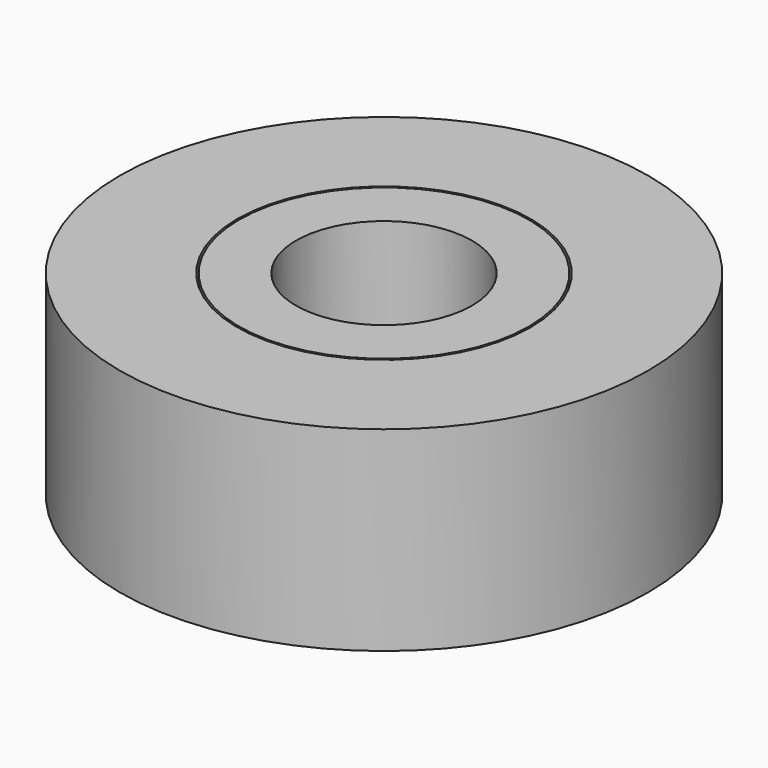
from build123d import *


with BuildPart() as f1:
    # F0 (on Front) → F1 (revolve)
    with BuildSketch(Plane.XZ):
        Polygon((2.25, -1.944888), (2.25, -2.494888), (3.7, -2.494888), (3.7, -1.894888), (3.75, -1.894888), (5.2, -1.894888), (5.2, 1.894888), (3.75, 1.894888), (3.7, 1.894888), (3.7, 2.494888), (2.25, 2.494888), (2.25, 1.944888), (2.25, 1.894888), (2.25, -1.894888), align=None)
        Polygon((3.75, -2.494888), (6.75, -2.494888), (6.75, 2.494888), (3.75, 2.494888), (3.75, 1.944888), (5.25, 1.944888), (5.25, -1.944888), (3.75, -1.944888), align=None)
    revolve(axis=Axis((0, 0, 0), (0, 0, -1)))


solid = f1.part
